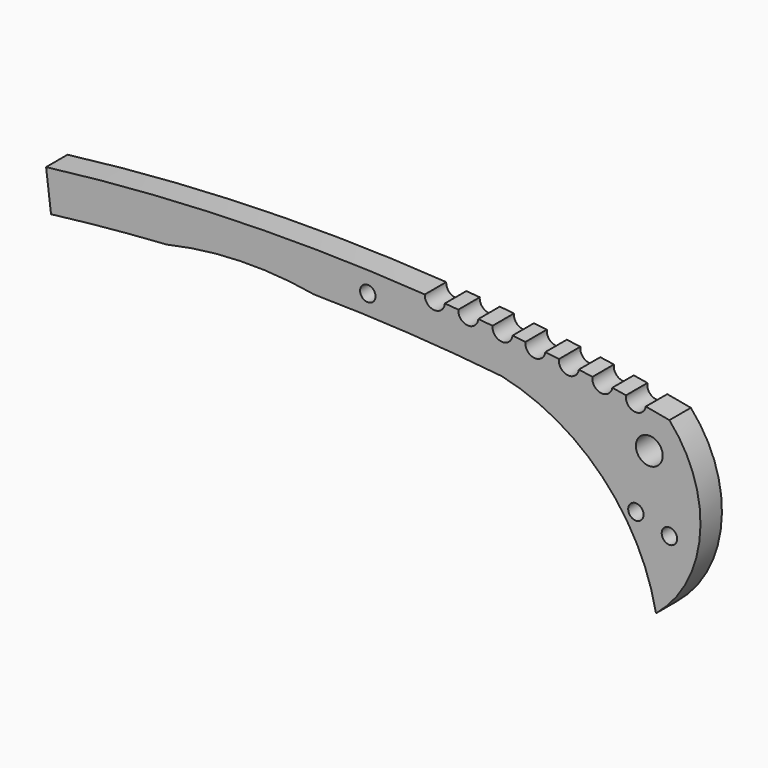
from build123d import *

# Parameters (mm, degrees)
F0_R     = 1.15
F0_R_2   = 2
F1_DEPTH = 4
F3_D     = 2.3


with BuildPart() as f1:
    # F0 (on Front) → F1 (new body)
    with BuildSketch(Plane.XZ):
        with BuildLine():
            ThreePointArc((83, -17.020984), (89.584854, -4.43975), (85, 9))
            ThreePointArc((85, 9), (83.239705, 9.329369), (81.477475, 9.648224))
            ThreePointArc((81.477475, 9.648224), (79.744723, 8.429077), (78.521248, 10.158776))
            ThreePointArc((78.521248, 10.158776), (77.501731, 10.327801), (76.481638, 10.493312))
            ThreePointArc((76.481638, 10.493312), (74.769723, 9.245075), (73.51721, 10.953864))
            ThreePointArc((73.51721, 10.953864), (72.501545, 11.104684), (71.48537, 11.252026))
            ThreePointArc((71.48537, 11.252026), (69.794723, 9.97513), (68.513604, 11.662579))
            ThreePointArc((68.513604, 11.662579), (67.501361, 11.795514), (66.488672, 11.925004))
            ThreePointArc((66.488672, 11.925004), (64.819723, 10.619876), (63.510427, 12.285557))
            ThreePointArc((63.510427, 12.285557), (62.551942, 12.395171), (61.59311, 12.501703))
            ThreePointArc((61.59311, 12.501703), (59.945831, 11.169329), (58.609343, 12.813272))
            ThreePointArc((58.609343, 12.813272), (57.551852, 12.916464), (56.494002, 13.015909))
            ThreePointArc((56.494002, 13.015909), (54.869723, 11.655589), (53.505347, 13.276462))
            ThreePointArc((53.505347, 13.276462), (52.500823, 13.35728), (51.496033, 13.434723))
            ThreePointArc((51.496033, 13.434723), (49.894723, 12.04744), (48.50344, 13.645276))
            ThreePointArc((48.50344, 13.645276), (20.212883, 14.156434), (-8, 12))
            Line((-8, 12), (-7.261107, 6.045671))
            ThreePointArc((-7.261107, 6.045671), (1.357451, 6.986365), (10, 7.672526))
            ThreePointArc((10, 7.672526), (20.969929, 9.081732), (32, 8.267657))
            ThreePointArc((32, 8.267657), (46.019436, 7.787283), (60, 6.638735))
            ThreePointArc((60, 6.638735), (75.044992, -1.744979), (83, -17.020984))
        make_face()
        with Locations((85, -6.225)):
            Circle(F0_R, mode=Mode.SUBTRACT)
        with Locations((40, 11)):
            Circle(F0_R, mode=Mode.SUBTRACT)
        with Locations((82, 4)):
            Circle(F0_R_2, mode=Mode.SUBTRACT)
    extrude(amount=F1_DEPTH)

    # F3 (through all)
    with Locations(Plane.XZ.offset(4)):
        with Locations((80, -4.675)):
            Hole(F3_D / 2)


solid = f1.part
